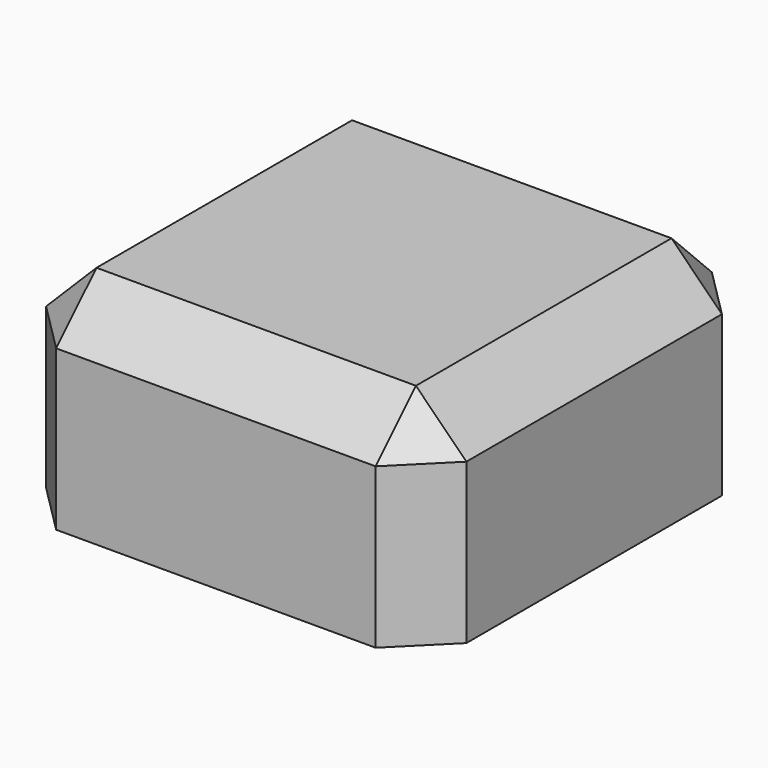
from build123d import *

# Parameters (mm, degrees)
F1_W     = 50
F1_H     = 50
F3_DEPTH = 25
F0_W     = 47
F0_H     = 47
F0_R     = 8.5
F4_DEPTH = 20
F2_R     = 8.5
F5_DEPTH = 20
F6_SIZE  = 6
F7_SIZE  = 5


with BuildPart() as f3:
    # F1 (on Top) → F3 (new body)
    with BuildSketch(Plane.XY):
        Rectangle(F1_W, F1_H)
        Rectangle(F1_W, F1_H)
    extrude(amount=F3_DEPTH)

    # F2 (on Top) → F5 (cut)
    with BuildSketch(Plane.XY):
        Circle(F2_R)
    extrude(amount=F5_DEPTH, mode=Mode.SUBTRACT)

    # F6
    f6_edges = [f3.edges().sort_by_distance(p)[0] for p in [
        (-25, 25, 12.5),
        (-25, 0, 25),
        (-25, -25, 12.5),
        (25, -25, 12.5),
        (25, 25, 12.5),
        (0, 25, 25),
        (0, -25, 25),
        (25, 0, 25),
    ]]
    chamfer(f6_edges, length=F6_SIZE)


with BuildPart() as f4:
    # F0 (on Top) → F4 (new body)
    with BuildSketch(Plane.XY):
        Rectangle(F0_W, F0_H)
        Circle(F0_R, mode=Mode.SUBTRACT)
    extrude(amount=F4_DEPTH)

    # F7
    f7_edges = [f4.edges().sort_by_distance(p)[0] for p in [
        (23.5, 23.5, 10),
        (-23.5, 23.5, 10),
        (-23.5, -23.5, 10),
        (23.5, -23.5, 10),
    ]]
    chamfer(f7_edges, length=F7_SIZE)


solid = Compound([f3.part, f4.part])
